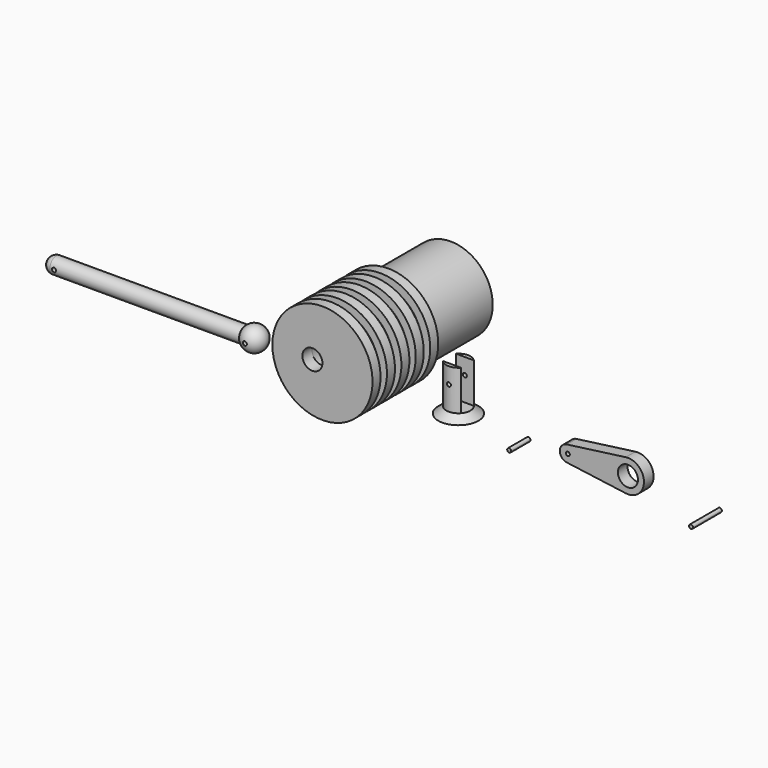
from build123d import *

# Parameters (mm, degrees)
F2_R      = 1.27
F3_DEPTH  = 7.62
F7_DEPTH  = 25.4
F8_R      = 1.27
F9_DEPTH  = 25.4
F10_R     = 1.27
F11_DEPTH = 25.4
F12_R     = 1.27
F13_DEPTH = 15.24
F16_R     = 1.27
F17_DEPTH = 25.4
F18_R     = 1.27
F19_DEPTH = 25.4
F20_R     = 6.35
F21_DEPTH = 25.4
F22_R     = 1.27
F22_R_2   = 6.35
F23_DEPTH = 7.62
F24_R     = 1.27
F25_DEPTH = 25.4
F26_R     = 1.27
F27_DEPTH = 25.4
F28_R     = 1.27
F29_DEPTH = 22.86


with BuildPart() as f1:
    # F0 (on Top) → F1 (revolve)
    with BuildSketch(Plane.XY):
        Polygon((-31.75, 6.35), (-31.75, 0), (-1.27, 0), (-1.27, 7.62), (-12.7, 7.62), (-12.7, 83.82), (-21.59, 83.82), (-21.59, 101.6), (-26.67, 101.6), (-26.67, 52.07), (-31.75, 52.07), (-31.75, 45.72), (-26.67, 45.72), (-26.67, 40.64), (-31.75, 40.64), (-31.75, 34.29), (-26.67, 34.29), (-26.67, 29.21), (-31.75, 29.21), (-31.75, 22.86), (-26.67, 22.86), (-26.67, 17.78), (-31.75, 17.78), (-31.75, 11.43), (-26.67, 11.43), (-26.67, 6.35), align=None)
    revolve(axis=Axis((0, 69.3760365248, 0), (0, 1, 0)))

    # F2 (on face) → F3 (join)
    with BuildSketch(Plane.XZ):
        Circle(F2_R)
    extrude(amount=-F3_DEPTH)

    # F20 (on face) → F21 (cut)
    with BuildSketch(Plane.XZ):
        with Locations((-6.35, 0)):
            Circle(F20_R)
    extrude(amount=-F21_DEPTH, mode=Mode.SUBTRACT)


with BuildPart() as f5:
    # F4 (on Front) → F5 (revolve)
    with BuildSketch(Plane.XZ):
        Polygon((78.5658129501, 4.0243747644), (73.4858129501, 0), (86.1858129501, 0), (86.1858129501, 4.0243747644), align=None)
    revolve(axis=Axis((86.1858129501, 0, 14.9916736409), (0, 0, 1)))

    # F6 (on face) → F7 (join)
    with BuildSketch(Plane.XY.offset(4.0243747644)):
        with BuildLine():
            ThreePointArc((91.865425613, 5.08), (86.1858129501, 7.62), (80.5062002873, 5.08))
            Line((80.5062002873, 5.08), (91.865425613, 5.08))
        make_face()
        with BuildLine():
            Line((91.865425613, -5.08), (80.5062002873, -5.08))
            ThreePointArc((80.5062002873, -5.08), (86.1858129501, -7.62), (91.865425613, -5.08))
        make_face()
    extrude(amount=F7_DEPTH)

    # F8 (on face) → F9 (cut)
    with BuildSketch(Plane.XZ.offset(-5.08)):
        with Locations((86.1831002873, 19.2643747644)):
            Circle(F8_R)
    extrude(amount=F9_DEPTH, mode=Mode.SUBTRACT)

    # F10 (on face) → F11 (cut)
    with BuildSketch(Plane(origin=(0, -5.08, 0), x_dir=(-1, 0, 0), z_dir=(0, 1, 0))):
        with Locations((-86.1831002873, 19.2643747644)):
            Circle(F10_R)
    extrude(amount=F11_DEPTH, mode=Mode.SUBTRACT)


with BuildPart() as f13:
    # F12 (on Front) → F13 (new body)
    with BuildSketch(Plane.XZ):
        with Locations((130.5621564388, 0)):
            Circle(F12_R)
    extrude(amount=F13_DEPTH)


with BuildPart() as f15:
    # F14 (on Front) → F15 (revolve)
    with BuildSketch(Plane.XZ):
        with BuildLine():
            Line((-48.824381202, 5.08), (-168.6715685392, 5.08))
            ThreePointArc((-168.6715685392, 5.08), (-172.2636709876, 3.5921024484), (-173.7515685392, 0))
            Line((-173.7515685392, 0), (-44.4147685392, 0))
            ThreePointArc((-44.4147685392, 0), (-43.1447685392, 1.27), (-41.8747685392, 0))
            Line((-41.8747685392, 0), (-35.5247685392, 0))
            ThreePointArc((-35.5247685392, 0), (-40.4257842151, 7.1183933753), (-48.824381202, 5.08))
        make_face()
        with BuildLine():
            ThreePointArc((-41.8747685392, 0), (-43.1447685392, 1.27), (-44.4147685392, 0))
            Line((-44.4147685392, 0), (-41.8747685392, 0))
        make_face()
        with BuildLine():
            Line((-41.8747685392, 0), (-44.4147685392, 0))
            ThreePointArc((-44.4147685392, 0), (-43.1447685392, -1.27), (-41.8747685392, 0))
        make_face()
    revolve(axis=Axis((-94.1134542227, 0, 0), (-1, 0, 0)))

    # F16 (on Front) → F17 (cut)
    with BuildSketch(Plane.XZ):
        with Locations((-166.1315685392, 0)):
            Circle(F16_R)
    extrude(amount=-F17_DEPTH, mode=Mode.SUBTRACT)

    # F18 (on Front) → F19 (cut)
    with BuildSketch(Plane.XZ):
        with Locations((-166.1315685392, 0)):
            Circle(F18_R)
    extrude(amount=F19_DEPTH, mode=Mode.SUBTRACT)

    # F24 (on Front) → F25 (cut)
    with BuildSketch(Plane.XZ):
        with Locations((-43.1447685392, 0)):
            Circle(F24_R)
    extrude(amount=-F25_DEPTH, mode=Mode.SUBTRACT)

    # F26 (on Front) → F27 (cut)
    with BuildSketch(Plane.XZ):
        with Locations((-43.1447685392, 0)):
            Circle(F26_R)
    extrude(amount=F27_DEPTH, mode=Mode.SUBTRACT)


with BuildPart() as f23:
    # F22 (on Front) → F23 (new body)
    with BuildSketch(Plane.XZ):
        with BuildLine():
            Line((192.2845330432, 10.0692838982), (154.8618663766, 5.0346419491))
            ThreePointArc((154.8618663766, 5.0346419491), (150.4620512721, 0.1701873692), (154.5262405226, -4.9779828932))
            Line((154.5262405226, -4.9779828932), (192.2845330432, -10.0692838982))
            ThreePointArc((192.2845330432, -10.0692838982), (203.7991997099, 0), (192.2845330432, 10.0692838982))
        make_face()
        with Locations((155.5391997099, 0)):
            Circle(F22_R, mode=Mode.SUBTRACT)
        with Locations((193.6391997099, 0)):
            Circle(F22_R_2, mode=Mode.SUBTRACT)
    extrude(amount=-F23_DEPTH)


with BuildPart() as f29:
    # F28 (on Front) → F29 (new body)
    with BuildSketch(Plane.XZ):
        with Locations((251.9410848618, 0)):
            Circle(F28_R)
    extrude(amount=F29_DEPTH)


solid = Compound([f1.part, f5.part, f13.part, f15.part, f23.part, f29.part])
